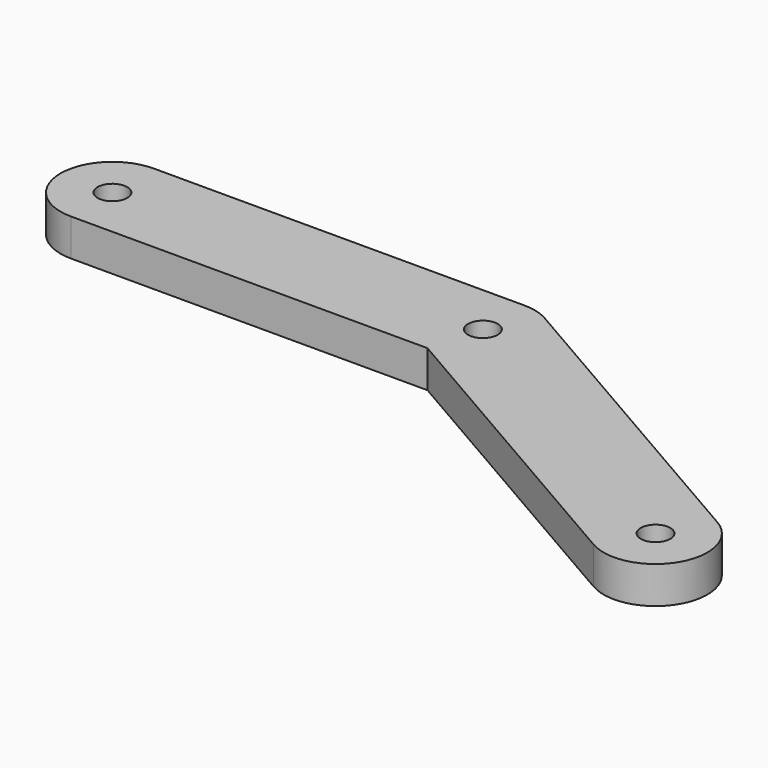
from build123d import *

# Parameters (mm, degrees)
F0_R     = 2
F1_DEPTH = 5


with BuildPart() as f1:
    # F0 (on Top) → F1 (new body)
    with BuildSketch(Plane.XY):
        with BuildLine():
            ThreePointArc((-50, 7), (-57, 0), (-50, -7))
            Line((-50, -7), (-1.875644, -7))
            Line((-1.875644, -7), (39.80127, -31.062178))
            ThreePointArc((39.80127, -31.062178), (49.363448, -28.5), (46.80127, -18.937822))
            Line((46.80127, -18.937822), (3.5, 6.062178))
            ThreePointArc((3.5, 6.062178), (1.811733, 6.761481), (0, 7))
            Line((0, 7), (-50, 7))
        make_face()
        with Locations((43.30127, -25)):
            Circle(F0_R, mode=Mode.SUBTRACT)
        with Locations((-50, 0)):
            Circle(F0_R, mode=Mode.SUBTRACT)
        Circle(F0_R, mode=Mode.SUBTRACT)
    extrude(amount=F1_DEPTH)


solid = f1.part
